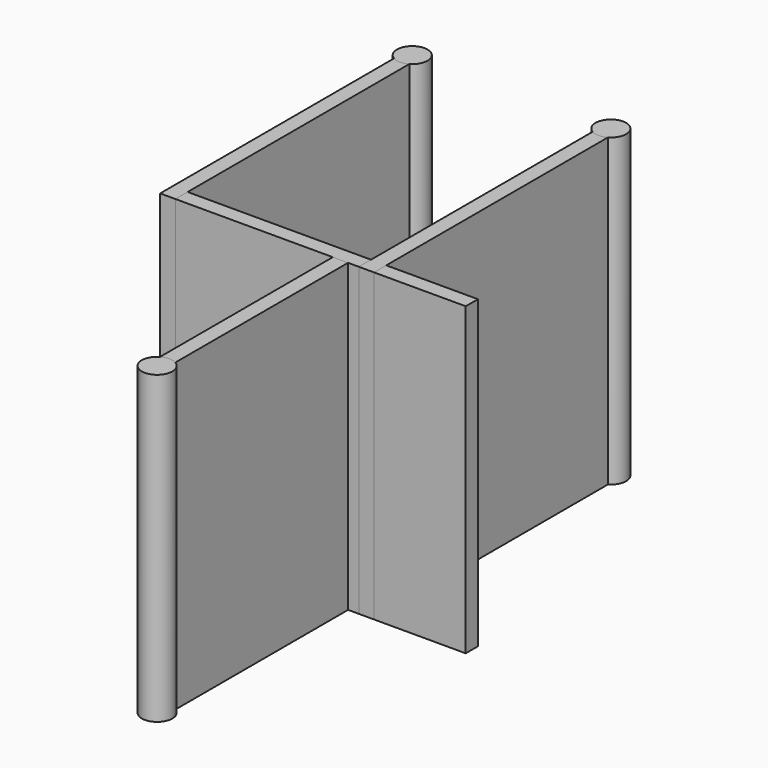
from build123d import *

# Parameters (mm, degrees)
BOX_W             = 19.5
BOX_H             = 1
BOX_DEPTH         = 20
BOX001_W          = 1
BOX001_H          = 20
BOX001_DEPTH      = 20
BOX002_W          = 1
BOX002_H          = 20
BOX002_DEPTH      = 20
CYLINDER_R        = 1
CYLINDER_DEPTH    = 20
CYLINDER001_R     = 1
CYLINDER001_DEPTH = 20
BOX003_W          = 1
BOX003_H          = 15
BOX003_DEPTH      = 20
CYLINDER002_R     = 1
CYLINDER002_DEPTH = 20


with BuildPart() as cube:
    # Box → Box (new body)
    with BuildSketch(Plane.XY):
        with Locations((9.75, 0.5)):
            Rectangle(BOX_W, BOX_H)
    extrude(amount=BOX_DEPTH)


with BuildPart() as part_mirroring:
    # Part__Mirroring: instance of Cube
    add(cube.part.mirror(Plane(origin=(0, 0, 0), x_dir=(0, -1, 0), z_dir=(1, 0, 0))))


with BuildPart() as cube001:
    # Box001 → Box001 (new body)
    with BuildSketch(Plane(origin=(6, 0, 0), x_dir=(1, 0, 0), z_dir=(0, 0, 1))):
        with Locations((0.5, 10)):
            Rectangle(BOX001_W, BOX001_H)
    extrude(amount=BOX001_DEPTH)


with BuildPart() as part_mirroring001:
    # Part__Mirroring001: instance of Cube001
    add(cube001.part.mirror(Plane(origin=(0, 0, 0), x_dir=(0, -1, 0), z_dir=(1, 0, 0))))


with BuildPart() as cube002:
    # Box002 → Box002 (new body)
    with BuildSketch(Plane(origin=(19, 0, 0), x_dir=(1, 0, 0), z_dir=(0, 0, 1))):
        with Locations((0.5, 10)):
            Rectangle(BOX002_W, BOX002_H)
    extrude(amount=BOX002_DEPTH)


with BuildPart() as part_mirroring002:
    # Part__Mirroring002: instance of Cube002
    add(cube002.part.mirror(Plane(origin=(0, 0, 0), x_dir=(0, -1, 0), z_dir=(1, 0, 0))))


with BuildPart() as cylinder:
    # Cylinder → Cylinder (new body)
    with BuildSketch(Plane(origin=(6.5, 20, 0), x_dir=(1, 0, 0), z_dir=(0, 0, 1))):
        Circle(CYLINDER_R)
    extrude(amount=CYLINDER_DEPTH)


with BuildPart() as part_mirroring003:
    # Part__Mirroring003: instance of Cylinder
    add(cylinder.part.mirror(Plane(origin=(0, 0, 0), x_dir=(0, -1, 0), z_dir=(1, 0, 0))))


with BuildPart() as cylinder001:
    # Cylinder001 → Cylinder001 (new body)
    with BuildSketch(Plane(origin=(19.5, 20, 0), x_dir=(1, 0, 0), z_dir=(0, 0, 1))):
        Circle(CYLINDER001_R)
    extrude(amount=CYLINDER001_DEPTH)


with BuildPart() as part_mirroring004:
    # Part__Mirroring004: instance of Cylinder001
    add(cylinder001.part.mirror(Plane(origin=(0, 0, 0), x_dir=(0, -1, 0), z_dir=(1, 0, 0))))


with BuildPart() as cube003:
    # Box003 → Box003 (new body)
    with BuildSketch(Plane(origin=(7.7, -15, 0), x_dir=(1, 0, 0), z_dir=(0, 0, 1))):
        with Locations((0.5, 7.5)):
            Rectangle(BOX003_W, BOX003_H)
    extrude(amount=BOX003_DEPTH)


with BuildPart() as part_mirroring005:
    # Part__Mirroring005: instance of Cube003
    add(cube003.part.mirror(Plane(origin=(0, 0, 0), x_dir=(0, -1, 0), z_dir=(1, 0, 0))))


with BuildPart() as cylinder002:
    # Cylinder002 → Cylinder002 (new body)
    with BuildSketch(Plane(origin=(8.2, -15, 0), x_dir=(1, 0, 0), z_dir=(0, 0, 1))):
        Circle(CYLINDER002_R)
    extrude(amount=CYLINDER002_DEPTH)


with BuildPart() as part_mirroring006:
    # Part__Mirroring006: instance of Cylinder002
    add(cylinder002.part.mirror(Plane(origin=(0, 0, 0), x_dir=(0, -1, 0), z_dir=(1, 0, 0))))


solid = Compound([part_mirroring.part, part_mirroring001.part, part_mirroring002.part, part_mirroring003.part, part_mirroring004.part, part_mirroring005.part, part_mirroring006.part])
